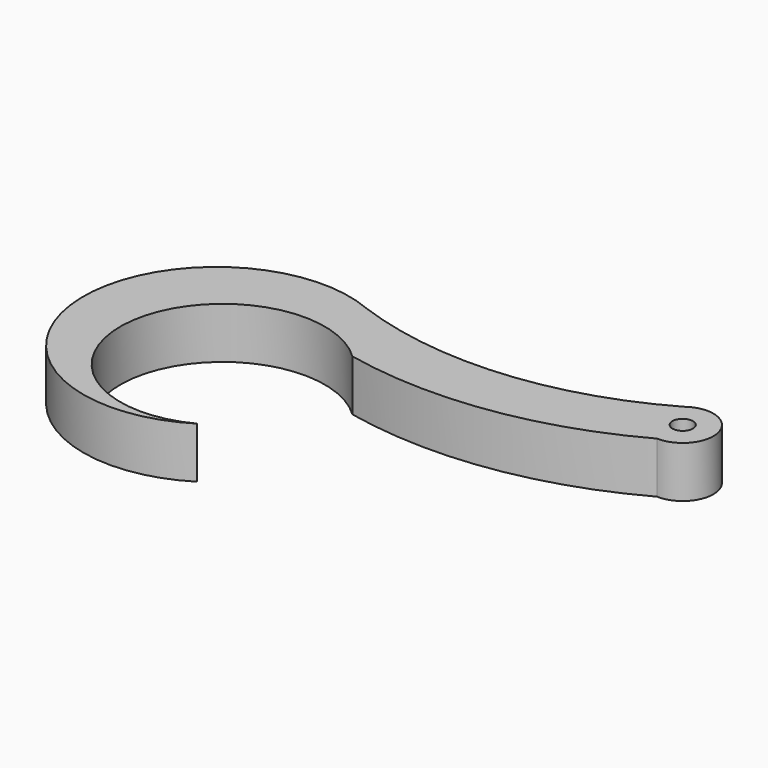
from build123d import *

# Parameters (mm, degrees)
F0_R     = 5
F1_DEPTH = 25


with BuildPart() as f1:
    # F0 (on Top) → F1 (new body)
    with BuildSketch(Plane.XY):
        with BuildLine():
            ThreePointArc((170.868804, 71.900473), (99.375357, 49.881208), (25.241628, 59.89875))
            ThreePointArc((25.241628, 59.89875), (-64.785616, -5.274848), (34.59885, -55.026535))
            ThreePointArc((34.59885, -55.026535), (-37.914253, -3.523259), (46.175519, 25.453421))
            ThreePointArc((46.175519, 25.453421), (114.565339, 23.288264), (179.449989, 45.010087))
            ThreePointArc((179.449989, 45.010087), (194.290019, 64.560191), (170.868804, 71.900473))
        make_face()
        with Locations((180, 60)):
            Circle(F0_R, mode=Mode.SUBTRACT)
    extrude(amount=F1_DEPTH)


solid = f1.part
